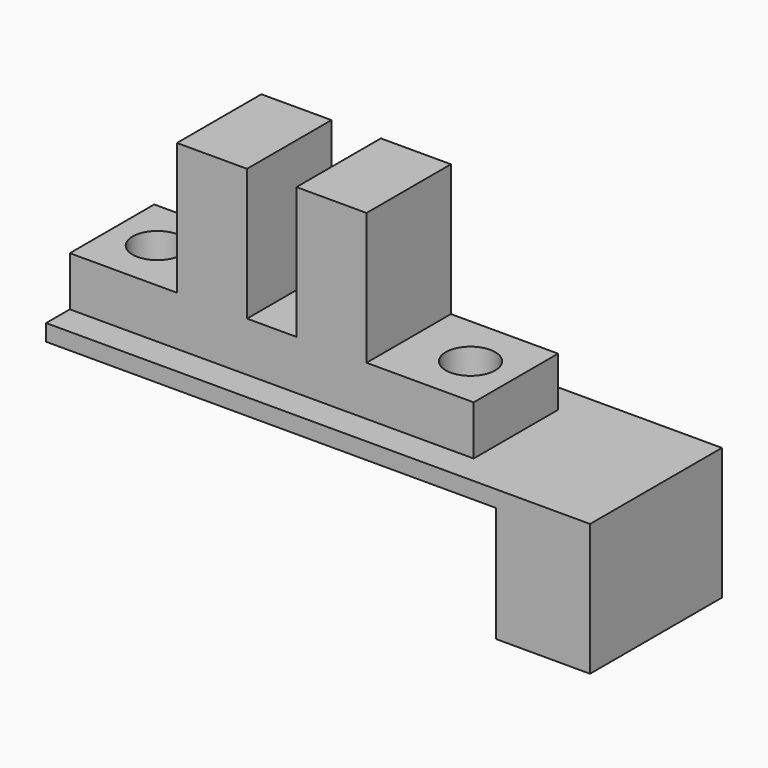
from build123d import *

# Parameters (mm, degrees)
F0_W     = 24.5
F0_H     = 10
F0_R     = 1.5
F0_W_2   = 8.5
F1_DEPTH = 1
F2_W     = 6.5
F2_H     = 6.4
F2_R     = 1.5
F2_W_2   = 3
F3_DEPTH = 3
F2_W_3   = 4.25
F4_DEPTH = 11
F5_W     = 5.7
F5_H     = 10
F6_DEPTH = 7


with BuildPart() as f1:
    # F0 (on Top) → F1 (new body)
    with BuildSketch(Plane.XY):
        Rectangle(F0_W, F0_H)
        with Locations((-9.5, 0)):
            Circle(F0_R, mode=Mode.SUBTRACT)
        with Locations((9.5, 0)):
            Circle(F0_R, mode=Mode.SUBTRACT)
        with Locations((16.5, 0)):
            Rectangle(F0_W_2, F0_H)
    extrude(amount=F1_DEPTH)

    # F2 (on face) → F3 (join)
    with BuildSketch(Plane.XY.offset(1)):
        with Locations((-9, 0)):
            Rectangle(F2_W, F2_H)
        with Locations((-9.5, 0)):
            Circle(F2_R, mode=Mode.SUBTRACT)
        Rectangle(F2_W_2, F2_H)
        with Locations((9, 0)):
            Rectangle(F2_W, F2_H)
        with Locations((9.5, 0)):
            Circle(F2_R, mode=Mode.SUBTRACT)
    extrude(amount=F3_DEPTH)

    # F2 (on face) → F4 (join)
    with BuildSketch(Plane.XY.offset(1)):
        with Locations((-3.625, 0)):
            Rectangle(F2_W_3, F2_H)
        with Locations((3.625, 0)):
            Rectangle(F2_W_3, F2_H)
    extrude(amount=F4_DEPTH)

    # F5 (on face) → F6 (join)
    with BuildSketch(Plane(origin=(0, 0, 0), x_dir=(1, 0, 0), z_dir=(0, 0, -1))):
        with Locations((17.9, 0)):
            Rectangle(F5_W, F5_H)
    extrude(amount=F6_DEPTH)


solid = f1.part
